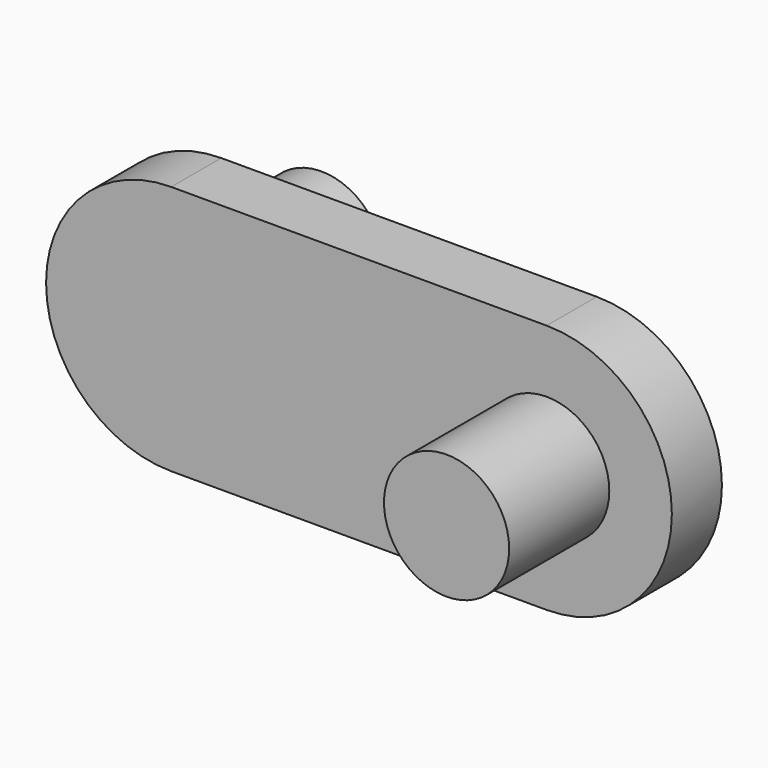
from build123d import *

# Parameters (mm, degrees)
F0_R          = 5
F1_DEPTH      = 5
F2_DEPTH      = 15
F3_DEPTH      = 10
F3_DEPTH_BACK = 5


with BuildPart() as f1:
    # F0 (on Front) → F1 (new body)
    with BuildSketch(Plane.XZ):
        with BuildLine():
            ThreePointArc((-15.0000017475, 10), (-25.0000017475, -8.738e-07), (-15, -10))
            Line((-15, -10), (15.0000017475, -10))
            ThreePointArc((15.0000017475, -10), (25, 8.737e-07), (15, 10))
            Line((15, 10), (-15.0000017475, 10))
        make_face()
        with Locations((-15, 0)):
            Circle(F0_R, mode=Mode.SUBTRACT)
        with Locations((15, 0)):
            Circle(F0_R, mode=Mode.SUBTRACT)
    extrude(amount=F1_DEPTH)

    # F0 (on Front) → F2 (join)
    with BuildSketch(Plane.XZ):
        with Locations((15, 0)):
            Circle(F0_R)
    extrude(amount=F2_DEPTH)

    # F0 (on Front) → F3 (join, two sides)
    with BuildSketch(Plane.XZ) as f3_sk:
        with Locations((-15, 0)):
            Circle(F0_R)
    extrude(amount=-F3_DEPTH)
    extrude(f3_sk.sketch, amount=F3_DEPTH_BACK)


solid = f1.part
